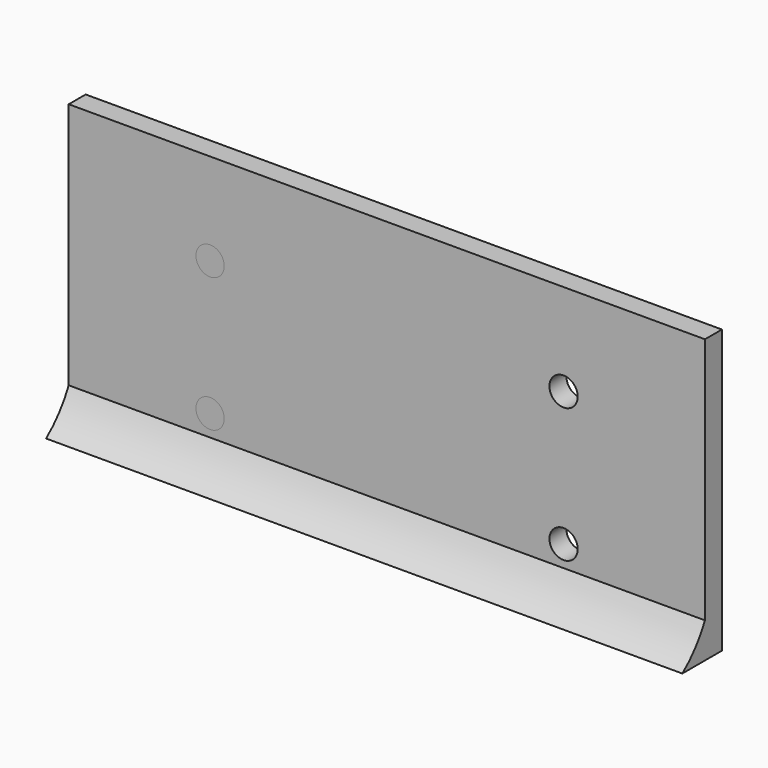
from build123d import *

# Parameters (mm, degrees)
SKETCH001_R      = 2
EXTRUDE001_DEPTH = 5
EXTRUDE_DEPTH    = 60
SKETCH003_R      = 2
EXTRUDE003_DEPTH = 5
EXTRUDE002_DEPTH = 90


with BuildPart() as extrude001:
    # Sketch001 (on Face5 of Extrude) → Extrude001 (new body, symmetric)
    with BuildSketch(Plane.XZ.offset(1.5)):
        with Locations((15, -12)):
            Circle(SKETCH001_R)
        with Locations((15, 7)):
            Circle(SKETCH001_R)
        with Locations((45, -12)):
            Circle(SKETCH001_R)
        with Locations((45, 7)):
            Circle(SKETCH001_R)
    extrude(amount=EXTRUDE001_DEPTH, both=True)


with BuildPart() as sided_hit_plank:
    # Sketch → Extrude (new body)
    with BuildSketch(Plane.YZ):
        with BuildLine():
            Line((-1.5, 20), (1.5, 20))
            Line((1.5, 20), (1.5, -20))
            Line((-5.5, -20), (1.5, -20))
            ThreePointArc((-5.5, -20), (-3.206483, -17.734813), (-1.5, -15))
            Line((-1.5, 20), (-1.5, -15))
        make_face()
    extrude(amount=EXTRUDE_DEPTH)

    # Cut: cut Extrude001
    add(extrude001.part, mode=Mode.SUBTRACT)


with BuildPart() as extrude003:
    # Sketch003 (on Face2 of Extrude002) → Extrude003 (new body, symmetric)
    with BuildSketch(Plane.XZ.offset(1.5)):
        with Locations((20, -12)):
            Circle(SKETCH003_R)
        with Locations((20, 7)):
            Circle(SKETCH003_R)
        with Locations((70, -12)):
            Circle(SKETCH003_R)
        with Locations((70, 7)):
            Circle(SKETCH003_R)
    extrude(amount=EXTRUDE003_DEPTH, both=True)


with BuildPart() as center_hit_plank:
    # Sketch002 → Extrude002 (new body)
    with BuildSketch(Plane.YZ):
        with BuildLine():
            Line((1.5, 20), (-1.5, 20))
            Line((-1.5, 20), (-1.5, -15))
            ThreePointArc((-5.5, -20), (-3.206483, -17.734813), (-1.5, -15))
            Line((1.5, -20), (-5.5, -20))
            Line((1.5, 20), (1.5, -20))
        make_face()
    extrude(amount=EXTRUDE002_DEPTH)

    # Cut001: cut Extrude003
    add(extrude003.part, mode=Mode.SUBTRACT)


solid = Compound([sided_hit_plank.part, center_hit_plank.part])
